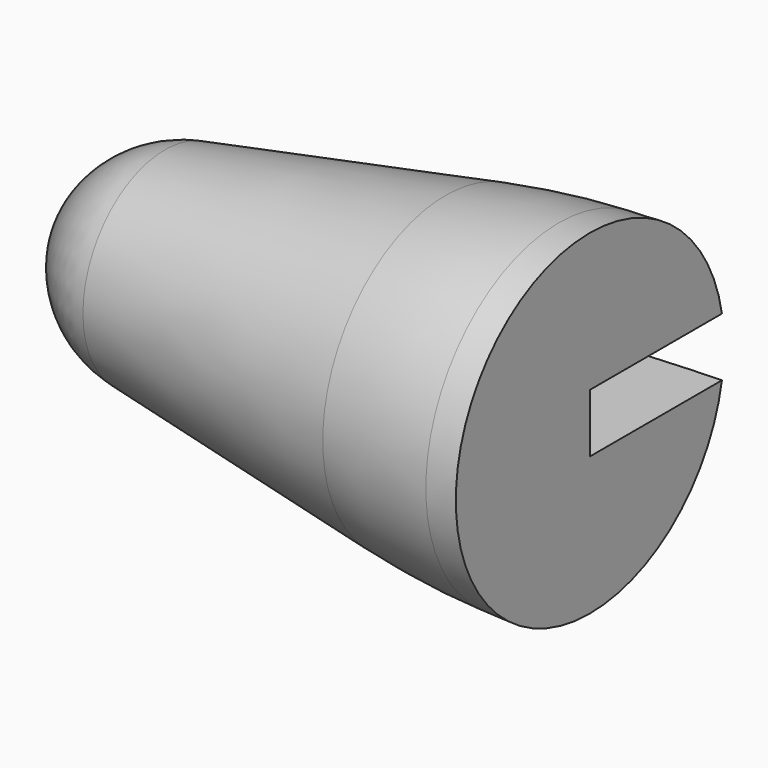
from build123d import *

# Parameters (mm, degrees)
SKETCH001_W  = 85.039572
SKETCH001_H  = 4.2
POCKET_DEPTH = 20


with BuildPart() as part:
    # CopyCopySketch004 → Revolution (revolve)
    with BuildSketch(Plane.XY):
        with BuildLine():
            Line((-94.301748, 7.336546), (-74.200088, 11.003772))
            ThreePointArc((-66.09792, 11.907295), (-70.164685, 11.596147), (-74.200088, 11.003772))
            Line((-66.09792, 11.907295), (-63.874209, 12))
            Line((-63.874209, 12), (-63.874209, 0))
            Line((-63.874209, 0), (-101.154209, 0))
            ThreePointArc((-94.301748, 7.336546), (-98.941677, 4.801888), (-101.154209, 0))
        make_face()
    revolve(axis=Axis((0, 0, 0), (1, 0, 0)))

    # Sketch001 → Pocket (cut)
    with BuildSketch(Plane.XZ):
        with Locations((-60.179326, 0)):
            Rectangle(SKETCH001_W, SKETCH001_H)
    extrude(amount=-POCKET_DEPTH, mode=Mode.SUBTRACT)


solid = part.part
